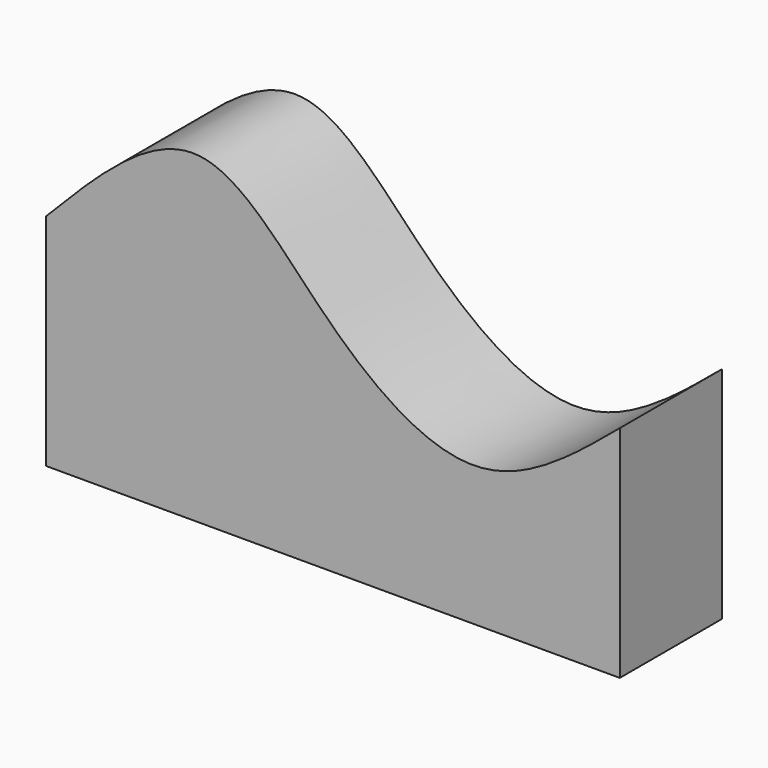
from build123d import *

# Parameters (mm, degrees)
F1_DEPTH = 25.4


with BuildPart() as f1:
    # F0 (on Front) → F1 (new body)
    with BuildSketch(Plane.XZ):
        with BuildLine():
            add(Edge.make_bspline(
                [(-56.2146678567, 0), (-45.9204422843, 10.575638816), (-25.7604459223, 31.2867440192), (-1.0911016091, -1.8562874877), (29.8270214145, -23.4851543531), (48.6056872921, -7.789653219), (57.9255521297, 0)],
                knots=[0, 0, 0, 0, 0.2585891115, 0.5064154831, 0.7550337185, 1, 1, 1, 1], degree=3))
            Line((-56.2146678567, 0), (-56.2146678567, -43.7496900558))
            Line((-56.2146678567, -43.7496900558), (57.9255521297, -43.7496900558))
            Line((57.9255521297, -43.7496900558), (57.9255521297, 0))
        make_face()
    extrude(amount=F1_DEPTH)


solid = f1.part
